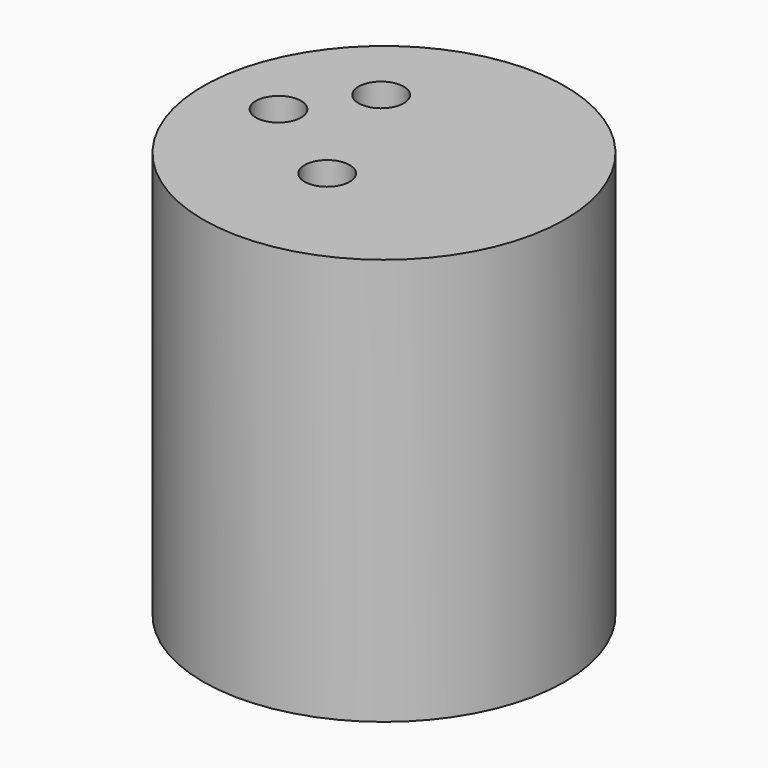
from build123d import *

# Parameters (mm, degrees)
F0_R     = 25.4
F2_DEPTH = 57.15
F4_D     = 6.35
F4_DEPTH = 12.7
F4_TIP   = 1.9077324654


with BuildPart() as f2:
    # F0 (on Top) → F2 (new body, through all)
    with BuildSketch(Plane.XY):
        Circle(F0_R)
    extrude(amount=F2_DEPTH)

    # F4
    with Locations(Plane.XY.offset(57.15)):
        with Locations((-8.8469870389, 10.5592897162), (-15.5139854178, 0.8681075997), (-1.8198583275, -7.7013894916)):
            Hole(F4_D / 2, depth=F4_DEPTH)
            with Locations((0, 0, -(F4_DEPTH + F4_TIP / 2))):  # 118° drill point
                Cone(0, F4_D / 2, F4_TIP, mode=Mode.SUBTRACT)


solid = f2.part
